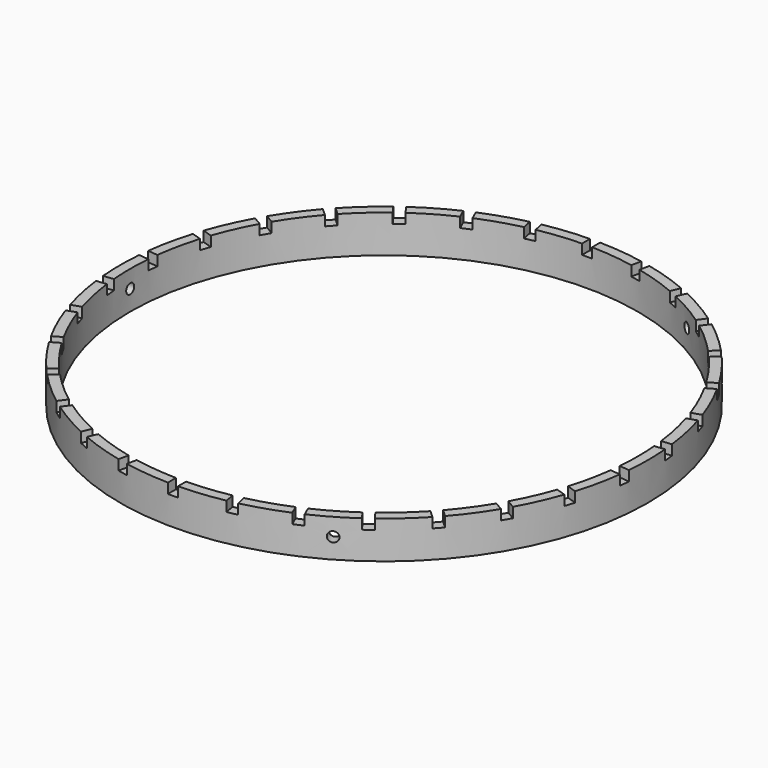
from build123d import *

# Parameters (mm, degrees)
F0_R     = 105
F0_R_2   = 101
F1_DEPTH = 15
F3_DEPTH = 4
F5_COUNT = 30
F7_START = -84.3
F6_R     = 2
F7_DEPTH = 36.6
F8_COUNT = 3


with BuildPart() as f1:
    # F0 (on Top) → F1 (new body)
    with BuildSketch(Plane.XY):
        Circle(F0_R)
        Circle(F0_R_2, mode=Mode.SUBTRACT)
    extrude(amount=F1_DEPTH)


with BuildPart() as f3:
    # F2 (on face) → F3 (new body)
    with BuildSketch(Plane.XY.offset(15)):
        with BuildLine():
            Line((2, 100.9801960782), (2, 104.980950653))
            ThreePointArc((2, 104.980950653), (0, 105), (-2, 104.980950653))
            Line((-2, 104.980950653), (-2, 100.9801960782))
            ThreePointArc((-2, 100.9801960782), (0, 101), (2, 100.9801960782))
        make_face()
    extrude(amount=-F3_DEPTH)


with BuildPart() as f5_1:
    # F5: instance of F3
    add(f3.part.rotate(Axis((0, 0, 17.057236284), (0, 0, 1)), 1 * 360 / F5_COUNT))


with BuildPart() as f5_2:
    # F5: instance of F3
    add(f3.part.rotate(Axis((0, 0, 17.057236284), (0, 0, 1)), 2 * 360 / F5_COUNT))


with BuildPart() as f5_3:
    # F5: instance of F3
    add(f3.part.rotate(Axis((0, 0, 17.057236284), (0, 0, 1)), 3 * 360 / F5_COUNT))


with BuildPart() as f5_4:
    # F5: instance of F3
    add(f3.part.rotate(Axis((0, 0, 17.057236284), (0, 0, 1)), 4 * 360 / F5_COUNT))


with BuildPart() as f5_5:
    # F5: instance of F3
    add(f3.part.rotate(Axis((0, 0, 17.057236284), (0, 0, 1)), 5 * 360 / F5_COUNT))


with BuildPart() as f5_6:
    # F5: instance of F3
    add(f3.part.rotate(Axis((0, 0, 17.057236284), (0, 0, 1)), 6 * 360 / F5_COUNT))


with BuildPart() as f5_7:
    # F5: instance of F3
    add(f3.part.rotate(Axis((0, 0, 17.057236284), (0, 0, 1)), 7 * 360 / F5_COUNT))


with BuildPart() as f5_8:
    # F5: instance of F3
    add(f3.part.rotate(Axis((0, 0, 17.057236284), (0, 0, 1)), 8 * 360 / F5_COUNT))


with BuildPart() as f5_9:
    # F5: instance of F3
    add(f3.part.rotate(Axis((0, 0, 17.057236284), (0, 0, 1)), 9 * 360 / F5_COUNT))


with BuildPart() as f5_10:
    # F5: instance of F3
    add(f3.part.rotate(Axis((0, 0, 17.057236284), (0, 0, 1)), 10 * 360 / F5_COUNT))


with BuildPart() as f5_11:
    # F5: instance of F3
    add(f3.part.rotate(Axis((0, 0, 17.057236284), (0, 0, 1)), 11 * 360 / F5_COUNT))


with BuildPart() as f5_12:
    # F5: instance of F3
    add(f3.part.rotate(Axis((0, 0, 17.057236284), (0, 0, 1)), 12 * 360 / F5_COUNT))


with BuildPart() as f5_13:
    # F5: instance of F3
    add(f3.part.rotate(Axis((0, 0, 17.057236284), (0, 0, 1)), 13 * 360 / F5_COUNT))


with BuildPart() as f5_14:
    # F5: instance of F3
    add(f3.part.rotate(Axis((0, 0, 17.057236284), (0, 0, 1)), 14 * 360 / F5_COUNT))


with BuildPart() as f5_15:
    # F5: instance of F3
    add(f3.part.rotate(Axis((0, 0, 17.057236284), (0, 0, 1)), 15 * 360 / F5_COUNT))


with BuildPart() as f5_16:
    # F5: instance of F3
    add(f3.part.rotate(Axis((0, 0, 17.057236284), (0, 0, 1)), 16 * 360 / F5_COUNT))


with BuildPart() as f5_17:
    # F5: instance of F3
    add(f3.part.rotate(Axis((0, 0, 17.057236284), (0, 0, 1)), 17 * 360 / F5_COUNT))


with BuildPart() as f5_18:
    # F5: instance of F3
    add(f3.part.rotate(Axis((0, 0, 17.057236284), (0, 0, 1)), 18 * 360 / F5_COUNT))


with BuildPart() as f5_19:
    # F5: instance of F3
    add(f3.part.rotate(Axis((0, 0, 17.057236284), (0, 0, 1)), 19 * 360 / F5_COUNT))


with BuildPart() as f5_20:
    # F5: instance of F3
    add(f3.part.rotate(Axis((0, 0, 17.057236284), (0, 0, 1)), 20 * 360 / F5_COUNT))


with BuildPart() as f5_21:
    # F5: instance of F3
    add(f3.part.rotate(Axis((0, 0, 17.057236284), (0, 0, 1)), 21 * 360 / F5_COUNT))


with BuildPart() as f5_22:
    # F5: instance of F3
    add(f3.part.rotate(Axis((0, 0, 17.057236284), (0, 0, 1)), 22 * 360 / F5_COUNT))


with BuildPart() as f5_23:
    # F5: instance of F3
    add(f3.part.rotate(Axis((0, 0, 17.057236284), (0, 0, 1)), 23 * 360 / F5_COUNT))


with BuildPart() as f5_24:
    # F5: instance of F3
    add(f3.part.rotate(Axis((0, 0, 17.057236284), (0, 0, 1)), 24 * 360 / F5_COUNT))


with BuildPart() as f5_25:
    # F5: instance of F3
    add(f3.part.rotate(Axis((0, 0, 17.057236284), (0, 0, 1)), 25 * 360 / F5_COUNT))


with BuildPart() as f5_26:
    # F5: instance of F3
    add(f3.part.rotate(Axis((0, 0, 17.057236284), (0, 0, 1)), 26 * 360 / F5_COUNT))


with BuildPart() as f5_27:
    # F5: instance of F3
    add(f3.part.rotate(Axis((0, 0, 17.057236284), (0, 0, 1)), 27 * 360 / F5_COUNT))


with BuildPart() as f5_28:
    # F5: instance of F3
    add(f3.part.rotate(Axis((0, 0, 17.057236284), (0, 0, 1)), 28 * 360 / F5_COUNT))


with BuildPart() as f5_29:
    # F5: instance of F3
    add(f3.part.rotate(Axis((0, 0, 17.057236284), (0, 0, 1)), 29 * 360 / F5_COUNT))


with BuildPart() as f7:
    # F6 (on Right) → F7 (new body)
    with BuildSketch(Plane.YZ.offset(F7_START)):
        with Locations((0, 8)):
            Circle(F6_R)
    extrude(amount=-F7_DEPTH)


with BuildPart() as f8_1:
    # F8: instance of F7
    add(f7.part.rotate(Axis((0, 0, 17.057236284), (0, 0, 1)), 1 * 360 / F8_COUNT))


with BuildPart() as f8_2:
    # F8: instance of F7
    add(f7.part.rotate(Axis((0, 0, 17.057236284), (0, 0, 1)), 2 * 360 / F8_COUNT))


with BuildPart() as f1_1:
    add(f1.part)

    # F9: cut F5_23, F3, F5_1, F5_2, F5_3, F5_4, F5_5, F5_6, F5_7, F5_8, F5_9, F5_10, F5_11, F5_12, F5_13, F5_14, F5_15, F5_16, F5_17, F5_18, F5_19, F5_20, F5_21, F5_22, F5_29, F5_27, F5_26, F5_25, F5_28, F5_24, F8_2, F8_1, F7
    add(f5_23.part, mode=Mode.SUBTRACT)
    add(f3.part, mode=Mode.SUBTRACT)
    add(f5_1.part, mode=Mode.SUBTRACT)
    add(f5_2.part, mode=Mode.SUBTRACT)
    add(f5_3.part, mode=Mode.SUBTRACT)
    add(f5_4.part, mode=Mode.SUBTRACT)
    add(f5_5.part, mode=Mode.SUBTRACT)
    add(f5_6.part, mode=Mode.SUBTRACT)
    add(f5_7.part, mode=Mode.SUBTRACT)
    add(f5_8.part, mode=Mode.SUBTRACT)
    add(f5_9.part, mode=Mode.SUBTRACT)
    add(f5_10.part, mode=Mode.SUBTRACT)
    add(f5_11.part, mode=Mode.SUBTRACT)
    add(f5_12.part, mode=Mode.SUBTRACT)
    add(f5_13.part, mode=Mode.SUBTRACT)
    add(f5_14.part, mode=Mode.SUBTRACT)
    add(f5_15.part, mode=Mode.SUBTRACT)
    add(f5_16.part, mode=Mode.SUBTRACT)
    add(f5_17.part, mode=Mode.SUBTRACT)
    add(f5_18.part, mode=Mode.SUBTRACT)
    add(f5_19.part, mode=Mode.SUBTRACT)
    add(f5_20.part, mode=Mode.SUBTRACT)
    add(f5_21.part, mode=Mode.SUBTRACT)
    add(f5_22.part, mode=Mode.SUBTRACT)
    add(f5_29.part, mode=Mode.SUBTRACT)
    add(f5_27.part, mode=Mode.SUBTRACT)
    add(f5_26.part, mode=Mode.SUBTRACT)
    add(f5_25.part, mode=Mode.SUBTRACT)
    add(f5_28.part, mode=Mode.SUBTRACT)
    add(f5_24.part, mode=Mode.SUBTRACT)
    add(f8_2.part, mode=Mode.SUBTRACT)
    add(f8_1.part, mode=Mode.SUBTRACT)
    add(f7.part, mode=Mode.SUBTRACT)


solid = f1_1.part
